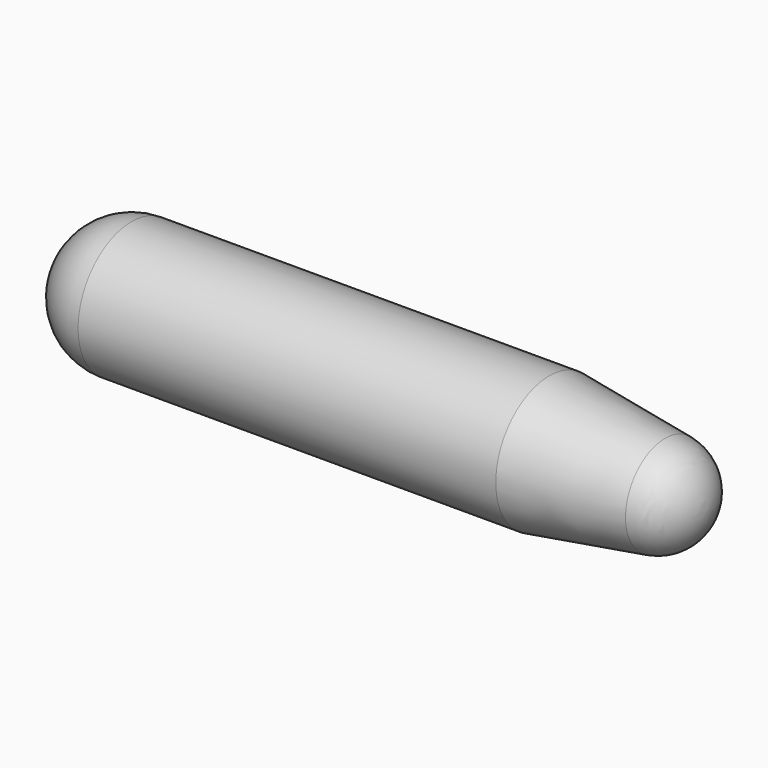
from build123d import *

# Parameters (mm, degrees)
SKETCH001_W         = 1
SKETCH001_H         = 2
LINEARPATTERN_COUNT = 5
LINEARPATTERN_PITCH = 24


with BuildPart() as part:
    # Sketch → Revolution (revolve)
    with BuildSketch(Plane.XY):
        with BuildLine():
            ThreePointArc((0, 0), (-2.911842, 7.836159), (-10.234231, 11.869375))
            Line((-10.234231, 11.869375), (-38, 16))
            Line((-38, 16), (-138, 16))
            ThreePointArc((-138, 16), (-149.313709, 11.313708), (-154, 0))
            Line((-153, 0), (-154, 0))
            ThreePointArc((-138, 15), (-148.606602, 10.606602), (-153, 0))
            Line((-138, 15), (-38, 15))
            Line((-38, 15), (-10.381764, 10.880318))
            ThreePointArc((-1, 0), (-3.669316, 7.183293), (-10.381764, 10.880318))
            Line((-1, 0), (0, 0))
        make_face()
    revolve(axis=Axis((0, 0, 0), (1, 0, 0)))

    # Sketch001 (on DatumPlane) → Revolution001 (revolve)
    with BuildSketch(Plane.XY):
        with Locations((-137.5, -14)):
            Rectangle(SKETCH001_W, SKETCH001_H)
    revolution001 = revolve(axis=Axis((0, 0, 0), (1, 0, 0)))

    # LinearPattern: Revolution001 ×5
    with Locations(*[(i * LINEARPATTERN_PITCH, 0, 0) for i in range(1, LINEARPATTERN_COUNT)]):
        add(revolution001)

    # Sketch002 (on DatumPlane) → Revolution002 (revolve)
    with BuildSketch(Plane.XY):
        Polygon((-24.1532, -12.934538), (-25.142257, -13.082071), (-25.437323, -11.103957), (-24.448266, -10.956424), align=None)
    revolve(axis=Axis((0, 0, 0), (1, 0, 0)))


solid = part.part
